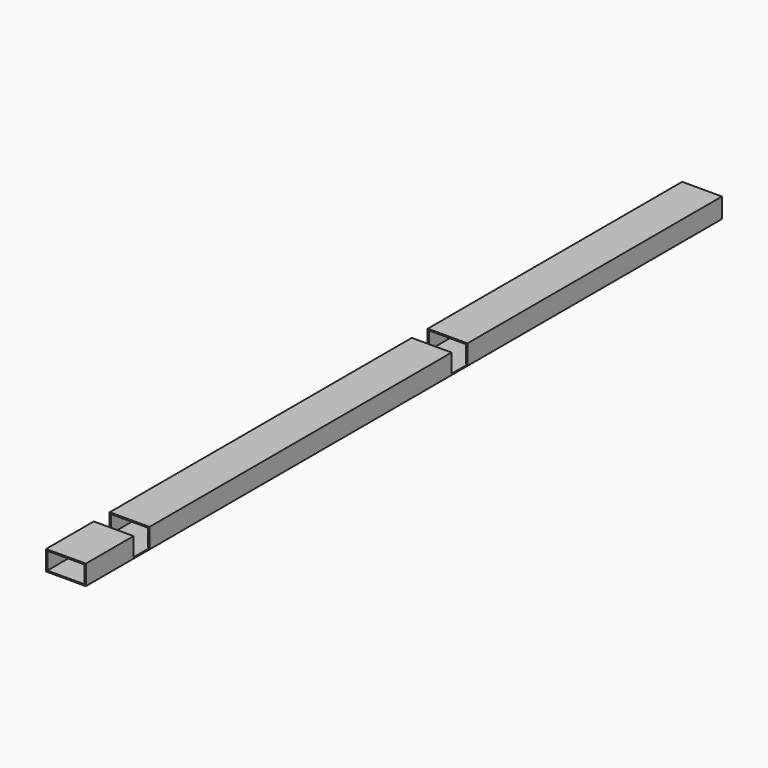
from build123d import *

# Parameters (mm, degrees)
F0_W     = 101.6
F0_H     = 50.8
F0_W_2   = 95.25
F0_H_2   = 44.45
F1_DEPTH = 2032
F2_W     = 50.8
F2_H     = 47.625
F3_DEPTH = 101.601


with BuildPart() as f1:
    # F0 (on Front) → F1 (new body)
    with BuildSketch(Plane.XZ):
        with Locations((50.8, 25.4)):
            Rectangle(F0_W, F0_H)
        with Locations((50.8, 25.4)):
            Rectangle(F0_W_2, F0_H_2, mode=Mode.SUBTRACT)
    extrude(amount=-F1_DEPTH)

    # F2 (on Right) → F3 (cut, through all)
    with BuildSketch(Plane.YZ):
        with Locations((177.8, 26.9875)):
            Rectangle(F2_W, F2_H)
        with Locations((1193.8, 26.9875)):
            Rectangle(F2_W, F2_H)
    extrude(amount=F3_DEPTH, mode=Mode.SUBTRACT)


solid = f1.part
